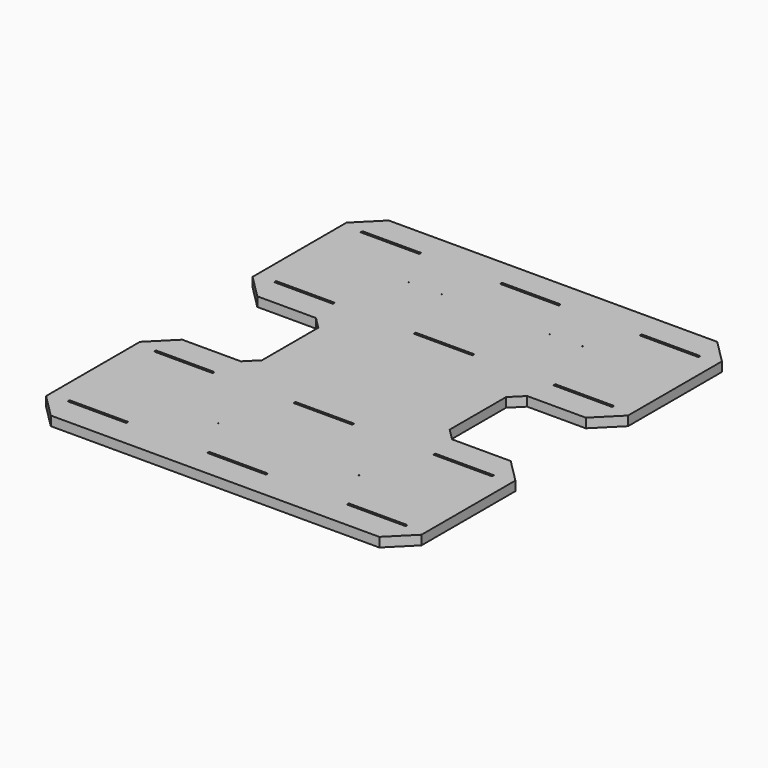
from build123d import *

# Parameters (mm, degrees)
F0_W     = 25
F0_H     = 1
F0_W_2   = 0.2
F0_H_2   = 0.2
F1_DEPTH = 4


with BuildPart() as f1:
    # F0 (on Top) → F1 (new body)
    with BuildSketch(Plane.XY):
        Polygon((70, 90), (0, 90), (-70, 90), (-80, 80), (-80, 30), (-70, 20), (-45, 20), (-40, 15), (-40, 0), (-40, -15), (-45, -20), (-70, -20), (-80, -30), (-80, -80), (-70, -90), (0, -90), (70, -90), (80, -80), (80, -30), (70, -20), (45, -20), (40, -15), (40, 0), (40, 15), (45, 20), (70, 20), (80, 30), (80, 80), align=None)
        with Locations((-59.5, -78)):
            Rectangle(F0_W, F0_H, mode=Mode.SUBTRACT)
        with Locations((-37, -59.5)):
            Rectangle(F0_W_2, F0_H_2, mode=Mode.SUBTRACT)
        with Locations((-23, -59.5)):
            Rectangle(F0_W_2, F0_H_2, mode=Mode.SUBTRACT)
        with Locations((-59.5, -32)):
            Rectangle(F0_W, F0_H, mode=Mode.SUBTRACT)
        Polygon((12.5, -78.5), (0, -78.5), (-12.5, -78.5), (-12.5, -77.5), (0, -77.5), (12.5, -77.5), align=None, mode=Mode.SUBTRACT)
        with Locations((23, -59.5)):
            Rectangle(F0_W_2, F0_H_2, mode=Mode.SUBTRACT)
        with Locations((37, -59.5)):
            Rectangle(F0_W_2, F0_H_2, mode=Mode.SUBTRACT)
        with Locations((59.5, -78)):
            Rectangle(F0_W, F0_H, mode=Mode.SUBTRACT)
        Polygon((12.5, -32.5), (0, -32.5), (-12.5, -32.5), (-12.5, -31.5), (0, -31.5), (12.5, -31.5), align=None, mode=Mode.SUBTRACT)
        with Locations((59.5, -32)):
            Rectangle(F0_W, F0_H, mode=Mode.SUBTRACT)
        with Locations((-59.5, 32)):
            Rectangle(F0_W, F0_H, mode=Mode.SUBTRACT)
        with Locations((-59.5, 78)):
            Rectangle(F0_W, F0_H, mode=Mode.SUBTRACT)
        with Locations((-37, 59.5)):
            Rectangle(F0_W_2, F0_H_2, mode=Mode.SUBTRACT)
        with Locations((-23, 59.5)):
            Rectangle(F0_W_2, F0_H_2, mode=Mode.SUBTRACT)
        Polygon((12.5, 32.5), (12.5, 31.5), (0, 31.5), (-12.5, 31.5), (-12.5, 32.5), (0, 32.5), align=None, mode=Mode.SUBTRACT)
        with Locations((59.5, 32)):
            Rectangle(F0_W, F0_H, mode=Mode.SUBTRACT)
        with Locations((23, 59.5)):
            Rectangle(F0_W_2, F0_H_2, mode=Mode.SUBTRACT)
        with Locations((37, 59.5)):
            Rectangle(F0_W_2, F0_H_2, mode=Mode.SUBTRACT)
        Polygon((-12.5, 78.5), (0, 78.5), (12.5, 78.5), (12.5, 77.5), (0, 77.5), (-12.5, 77.5), align=None, mode=Mode.SUBTRACT)
        with Locations((59.5, 78)):
            Rectangle(F0_W, F0_H, mode=Mode.SUBTRACT)
    extrude(amount=F1_DEPTH)


solid = f1.part
